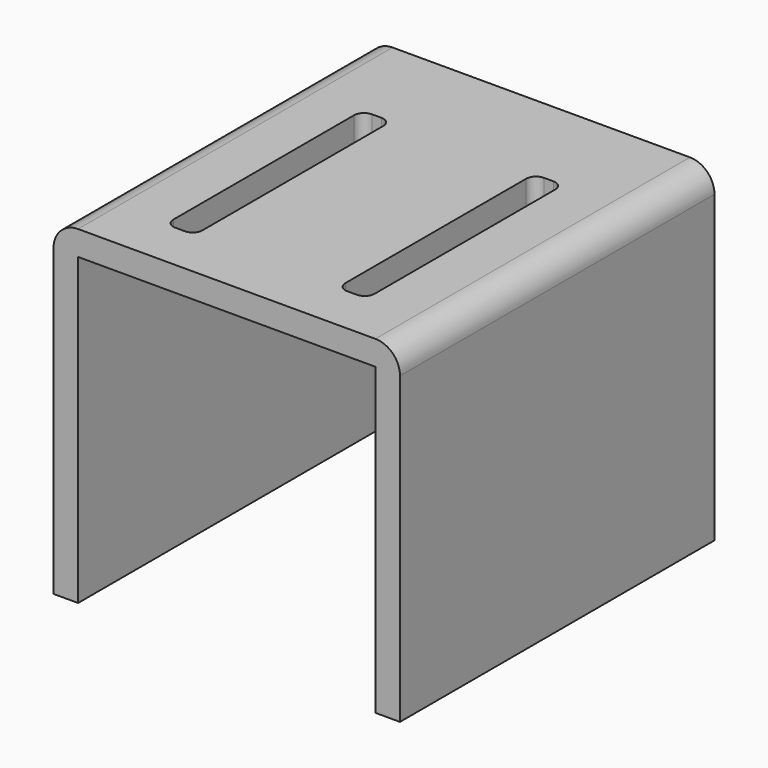
from build123d import *

# Parameters (mm, degrees)
F1_DEPTH = 80
F3_DEPTH = 67.001


with BuildPart() as f1:
    # F0 (on Front) → F1 (new body)
    with BuildSketch(Plane.XZ):
        with BuildLine():
            Line((-35.25, 62), (-35.25, 0))
            Line((-35.25, 0), (-30.25, 0))
            Line((-30.25, 0), (-30.25, 62))
            Line((-30.25, 62), (30.25, 62))
            Line((30.25, 62), (30.25, 0))
            Line((30.25, 0), (35.25, 0))
            Line((35.25, 0), (35.25, 62))
            ThreePointArc((35.25, 62), (33.785534, 65.535534), (30.25, 67))
            Line((30.25, 67), (-30.25, 67))
            ThreePointArc((-30.25, 67), (-33.785534, 65.535534), (-35.25, 62))
        make_face()
    extrude(amount=-F1_DEPTH)

    # F2 (on face) → F3 (cut, through all)
    with BuildSketch(Plane.XY.offset(67)):
        with BuildLine():
            Line((16.534872, 10), (18.465128, 10))
            ThreePointArc((18.465128, 10), (19.879342, 10.585786), (20.465128, 12))
            Line((20.465128, 12), (20.465128, 58))
            ThreePointArc((20.465128, 58), (19.879342, 59.414214), (18.465128, 60))
            Line((18.465128, 60), (16.534872, 60))
            ThreePointArc((16.534872, 60), (15.120658, 59.414214), (14.534872, 58))
            Line((14.534872, 58), (14.534872, 12))
            ThreePointArc((14.534872, 12), (15.120658, 10.585786), (16.534872, 10))
        make_face()
        with BuildLine():
            Line((-18.465128, 10), (-16.534872, 10))
            ThreePointArc((-16.534872, 10), (-15.120658, 10.585786), (-14.534872, 12))
            Line((-14.534872, 12), (-14.534872, 58))
            ThreePointArc((-14.534872, 58), (-15.120658, 59.414214), (-16.534872, 60))
            Line((-16.534872, 60), (-18.465128, 60))
            ThreePointArc((-18.465128, 60), (-19.879342, 59.414214), (-20.465128, 58))
            Line((-20.465128, 58), (-20.465128, 12))
            ThreePointArc((-20.465128, 12), (-19.879342, 10.585786), (-18.465128, 10))
        make_face()
    extrude(amount=-F3_DEPTH, mode=Mode.SUBTRACT)


solid = f1.part
